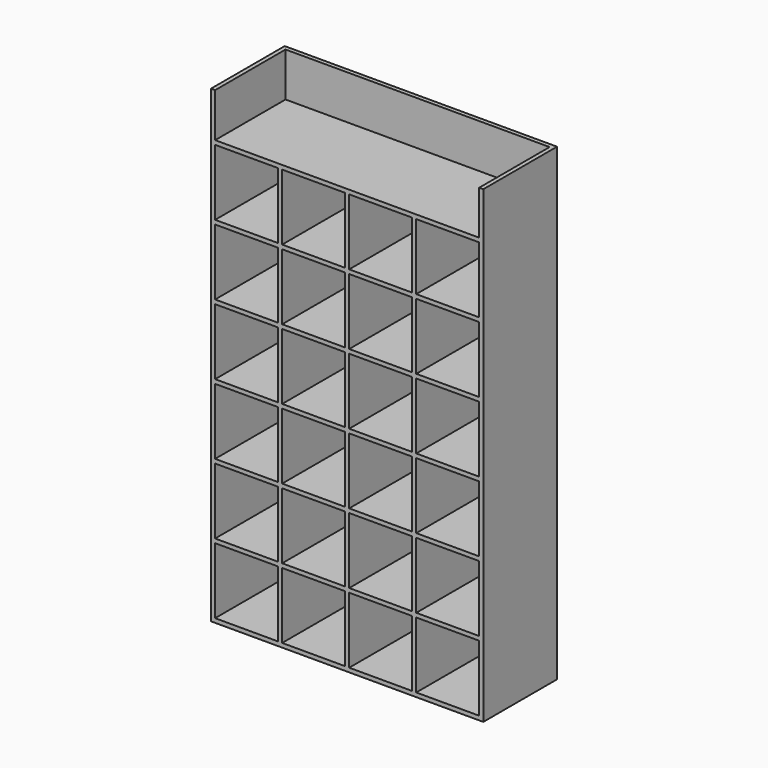
from build123d import *

# Parameters (mm, degrees)
F0_W     = 1257.3
F0_H     = 2165.35
F1_DEPTH = 19.05
F2_W     = 19.05
F2_H     = 304.8
F2_W_2   = 290.5125
F2_H_2   = 19.05
F3_DEPTH = 406.4


with BuildPart() as f1:
    # F0 (on Front) → F1 (new body)
    with BuildSketch(Plane.XZ):
        with Locations((-284.6911793649, 276.7382148782)):
            Rectangle(F0_W, F0_H)
    extrude(amount=F1_DEPTH)

    # F2 (on face) → F3 (join)
    with BuildSketch(Plane.XZ.offset(19.05)):
        Polygon((-913.3411793649, 1359.4132148782), (-913.3411793649, -805.9367851218), (-894.2911793649, -805.9367851218), (-894.2911793649, -786.8867851218), (-894.2911793649, -482.0867851218), (-894.2911793649, -463.0367851218), (-894.2911793649, -158.2367851218), (-894.2911793649, -139.1867851218), (-894.2911793649, 165.6132148782), (-894.2911793649, 184.6632148782), (-894.2911793649, 489.4632148782), (-894.2911793649, 508.5132148782), (-894.2911793649, 813.3132148782), (-894.2911793649, 832.3632148782), (-894.2911793649, 1137.1632148782), (-894.2911793649, 1156.2132148782), (-894.2911793649, 1359.4132148782), align=None)
        Polygon((-894.2911793649, -786.8867851218), (-894.2911793649, -805.9367851218), (324.9088206351, -805.9367851218), (324.9088206351, -786.8867851218), (34.3963206351, -786.8867851218), (19.05, -786.8867851218), (15.3463206351, -786.8867851218), (0, -786.8867851218), (-275.1661793649, -786.8867851218), (-294.2161793649, -786.8867851218), (-584.7286793649, -786.8867851218), (-603.7786793649, -786.8867851218), align=None)
        Polygon((324.9088206351, -786.8867851218), (324.9088206351, -805.9367851218), (343.9588206351, -805.9367851218), (343.9588206351, 1359.4132148782), (324.9088206351, 1359.4132148782), (324.9088206351, 1156.2132148782), (324.9088206351, 1137.1632148782), (324.9088206351, 832.3632148782), (324.9088206351, 813.3132148782), (324.9088206351, 508.5132148782), (324.9088206351, 489.4632148782), (324.9088206351, 184.6632148782), (324.9088206351, 165.6132148782), (324.9088206351, -139.1867851218), (324.9088206351, -158.2367851218), (324.9088206351, -463.0367851218), (324.9088206351, -482.0867851218), align=None)
        Polygon((324.9088206351, 1156.2132148782), (-894.2911793649, 1156.2132148782), (-894.2911793649, 1137.1632148782), (-603.7786793649, 1137.1632148782), (-584.7286793649, 1137.1632148782), (-294.2161793649, 1137.1632148782), (-275.1661793649, 1137.1632148782), (0, 1137.1632148782), (15.3463206351, 1137.1632148782), (19.05, 1137.1632148782), (34.3963206351, 1137.1632148782), (324.9088206351, 1137.1632148782), align=None)
        with Locations((-594.2536793649, 660.9132148782)):
            Rectangle(F2_W, F2_H)
        with Locations((-594.2536793649, 984.7632148782)):
            Rectangle(F2_W, F2_H)
        with Locations((-749.0349293649, 822.8382148782)):
            Rectangle(F2_W_2, F2_H_2)
        with Locations((-439.4724293649, 822.8382148782)):
            Rectangle(F2_W_2, F2_H_2)
        with Locations((-594.2536793649, 822.8382148782)):
            Rectangle(F2_W, F2_H_2)
        with Locations((-284.6911793649, 822.8382148782)):
            Rectangle(F2_W, F2_H_2)
        with Locations((-129.9099293649, 822.8382148782)):
            Rectangle(F2_W_2, F2_H_2)
        with Locations((24.8713206351, 822.8382148782)):
            Rectangle(F2_W, F2_H_2)
        with Locations((179.6525706351, 822.8382148782)):
            Rectangle(F2_W_2, F2_H_2)
        Polygon((34.3963206351, 832.3632148782), (34.3963206351, 1137.1632148782), (19.05, 1137.1632148782), (15.3463206351, 1137.1632148782), (15.3463206351, 832.3632148782), align=None)
        with Locations((-284.6911793649, 984.7632148782)):
            Rectangle(F2_W, F2_H)
        with Locations((-284.6911793649, 660.9132148782)):
            Rectangle(F2_W, F2_H)
        with Locations((24.8713206351, 660.9132148782)):
            Rectangle(F2_W, F2_H)
        with Locations((-749.0349293649, 498.9882148782)):
            Rectangle(F2_W_2, F2_H_2)
        with Locations((-594.2536793649, 498.9882148782)):
            Rectangle(F2_W, F2_H_2)
        with Locations((-439.4724293649, 498.9882148782)):
            Rectangle(F2_W_2, F2_H_2)
        with Locations((-284.6911793649, 498.9882148782)):
            Rectangle(F2_W, F2_H_2)
        with Locations((-129.9099293649, 498.9882148782)):
            Rectangle(F2_W_2, F2_H_2)
        with Locations((24.8713206351, 498.9882148782)):
            Rectangle(F2_W, F2_H_2)
        with Locations((179.6525706351, 498.9882148782)):
            Rectangle(F2_W_2, F2_H_2)
        with Locations((-749.0349293649, 175.1382148782)):
            Rectangle(F2_W_2, F2_H_2)
        with Locations((-594.2536793649, 175.1382148782)):
            Rectangle(F2_W, F2_H_2)
        with Locations((-439.4724293649, 175.1382148782)):
            Rectangle(F2_W_2, F2_H_2)
        with Locations((-284.6911793649, 175.1382148782)):
            Rectangle(F2_W, F2_H_2)
        with Locations((-129.9099293649, 175.1382148782)):
            Rectangle(F2_W_2, F2_H_2)
        with Locations((24.8713206351, 175.1382148782)):
            Rectangle(F2_W, F2_H_2)
        with Locations((179.6525706351, 175.1382148782)):
            Rectangle(F2_W_2, F2_H_2)
        with Locations((24.8713206351, 337.0632148782)):
            Rectangle(F2_W, F2_H)
        with Locations((-284.6911793649, 337.0632148782)):
            Rectangle(F2_W, F2_H)
        with Locations((-594.2536793649, 337.0632148782)):
            Rectangle(F2_W, F2_H)
        with Locations((-749.0349293649, -148.7117851218)):
            Rectangle(F2_W_2, F2_H_2)
        with Locations((-594.2536793649, -148.7117851218)):
            Rectangle(F2_W, F2_H_2)
        with Locations((-439.4724293649, -148.7117851218)):
            Rectangle(F2_W_2, F2_H_2)
        with Locations((-284.6911793649, -148.7117851218)):
            Rectangle(F2_W, F2_H_2)
        with Locations((-129.9099293649, -148.7117851218)):
            Rectangle(F2_W_2, F2_H_2)
        with Locations((24.8713206351, -148.7117851218)):
            Rectangle(F2_W, F2_H_2)
        with Locations((179.6525706351, -148.7117851218)):
            Rectangle(F2_W_2, F2_H_2)
        with Locations((-594.2536793649, 13.2132148782)):
            Rectangle(F2_W, F2_H)
        with Locations((-284.6911793649, 13.2132148782)):
            Rectangle(F2_W, F2_H)
        with Locations((24.8713206351, 13.2132148782)):
            Rectangle(F2_W, F2_H)
        with Locations((-749.0349293649, -472.5617851218)):
            Rectangle(F2_W_2, F2_H_2)
        with Locations((-594.2536793649, -472.5617851218)):
            Rectangle(F2_W, F2_H_2)
        with Locations((-439.4724293649, -472.5617851218)):
            Rectangle(F2_W_2, F2_H_2)
        with Locations((-284.6911793649, -472.5617851218)):
            Rectangle(F2_W, F2_H_2)
        with Locations((-129.9099293649, -472.5617851218)):
            Rectangle(F2_W_2, F2_H_2)
        with Locations((24.8713206351, -472.5617851218)):
            Rectangle(F2_W, F2_H_2)
        with Locations((179.6525706351, -472.5617851218)):
            Rectangle(F2_W_2, F2_H_2)
        with Locations((-594.2536793649, -310.6367851218)):
            Rectangle(F2_W, F2_H)
        with Locations((-284.6911793649, -310.6367851218)):
            Rectangle(F2_W, F2_H)
        with Locations((24.8713206351, -310.6367851218)):
            Rectangle(F2_W, F2_H)
        Polygon((19.05, -786.8867851218), (34.3963206351, -786.8867851218), (34.3963206351, -482.0867851218), (15.3463206351, -482.0867851218), (15.3463206351, -786.8867851218), align=None)
        with Locations((-284.6911793649, -634.4867851218)):
            Rectangle(F2_W, F2_H)
        with Locations((-594.2536793649, -634.4867851218)):
            Rectangle(F2_W, F2_H)
    extrude(amount=F3_DEPTH)


solid = f1.part
